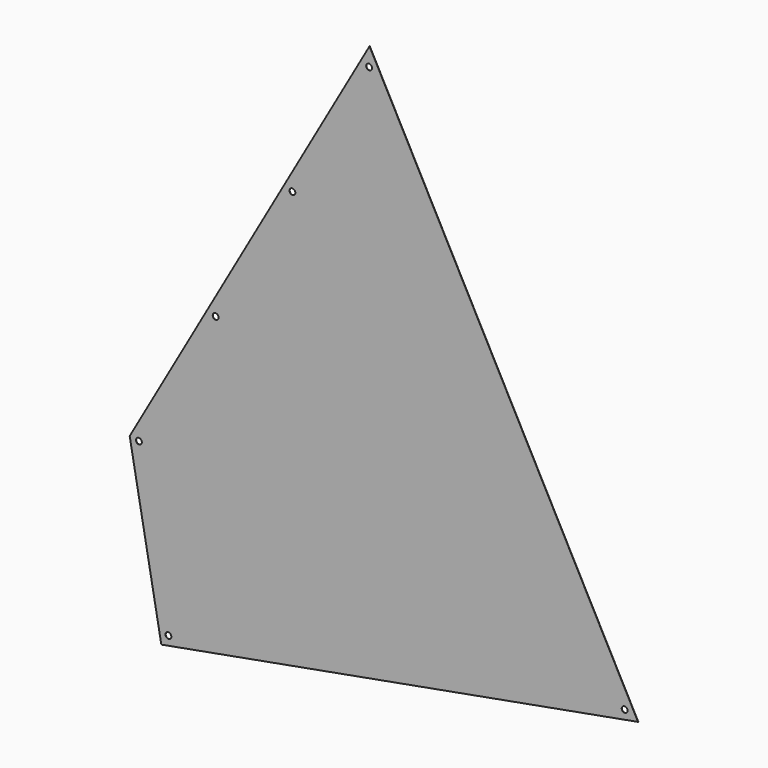
from build123d import *

# Parameters (mm, degrees)
F1_DEPTH = 1
F2_R     = 10
F3_DEPTH = 1.001


with BuildPart() as f1:
    # F0 (on Front) → F1 (new body)
    with BuildSketch(Plane.XZ):
        Polygon((-107.687899, 590.256992), (0, 0), (1623.206728, 296.141721), (708.831554, 2024.061715), align=None)
    extrude(amount=F1_DEPTH)

    # F2 (on face) → F3 (cut, through all)
    with BuildSketch(Plane.XZ.offset(1)):
        with Locations((-76.215289, 584.899588)):
            Circle(F2_R)
        with Locations((185.070935, 1043.717099)):
            Circle(F2_R)
        with Locations((446.35716, 1502.534611)):
            Circle(F2_R)
        with Locations((707.643385, 1961.352122)):
            Circle(F2_R)
        with Locations((24.128455, 34.897245)):
            Circle(F2_R)
        with Locations((1577.53703, 318.304824)):
            Circle(F2_R)
    extrude(amount=-F3_DEPTH, mode=Mode.SUBTRACT)


solid = f1.part
